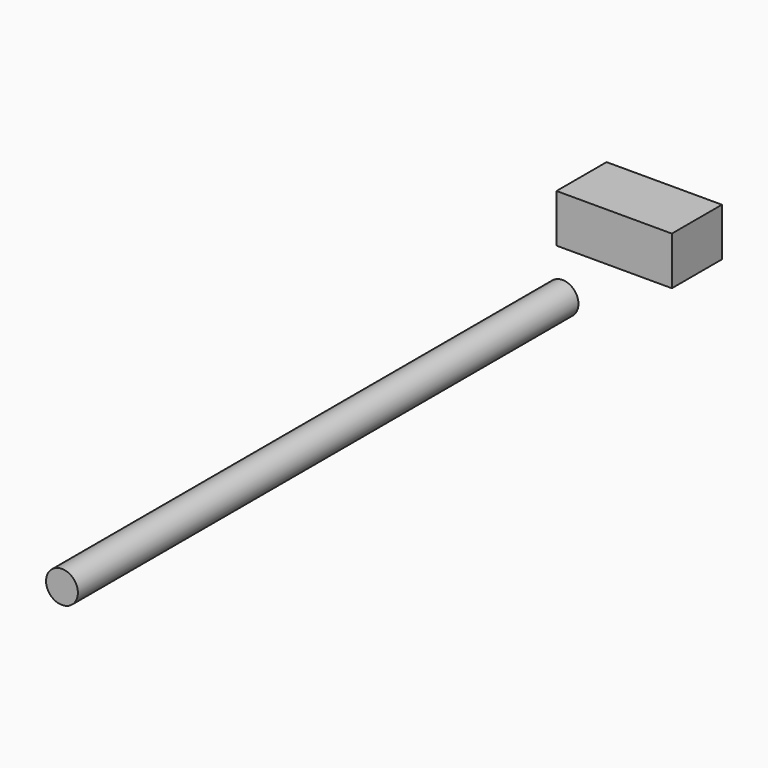
from build123d import *

# Parameters (mm, degrees)
F0_R     = 6.462945
F1_DEPTH = 254
F0_W     = 46.826133
F0_H     = 19.541614
F2_DEPTH = 25.4


with BuildPart() as f1:
    # F0 (on Front) → F1 (new body)
    with BuildSketch(Plane.XZ):
        Circle(F0_R)
    extrude(amount=F1_DEPTH)


with BuildPart() as f2:
    # F0 (on Front) → F2 (new body)
    with BuildSketch(Plane.XZ):
        with Locations((41.295486, 44.613872)):
            Rectangle(F0_W, F0_H)
    extrude(amount=F2_DEPTH)


solid = Compound([f1.part, f2.part])
